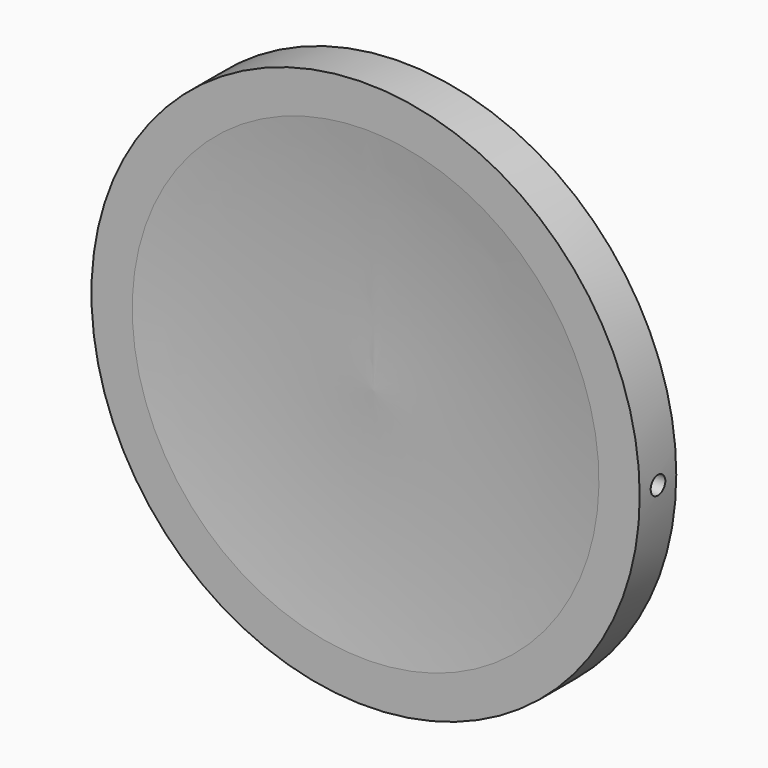
from build123d import *

# Parameters (mm, degrees)
F0_R     = 90
F1_DEPTH = 7.5
F2_R     = 3
F3_DEPTH = 90


with BuildPart() as f1:
    # F0 (on Front) → F1 (new body, symmetric)
    with BuildSketch(Plane.XZ):
        Circle(F0_R)
    extrude(amount=F1_DEPTH, both=True)

    # F2 (on Right) → F3 (cut, symmetric)
    with BuildSketch(Plane.YZ):
        Circle(F2_R)
    extrude(amount=F3_DEPTH, both=True, mode=Mode.SUBTRACT)

    # F5 (on Right) → F6 (revolve, cut)
    with BuildSketch(Plane.YZ):
        with BuildLine():
            Line((-7.9027169537, 80), (-7.9027169537, 0))
            Line((-7.9027169537, 0), (-4.3293770832, 0))
            ThreePointArc((-4.3293770832, 0), (-4.580031519, 40.0686088178), (-7.9027169537, 80))
        make_face()
    revolve(axis=Axis((0, 1.0657925159, 0), (0, 1, 0)), mode=Mode.SUBTRACT)


solid = f1.part
